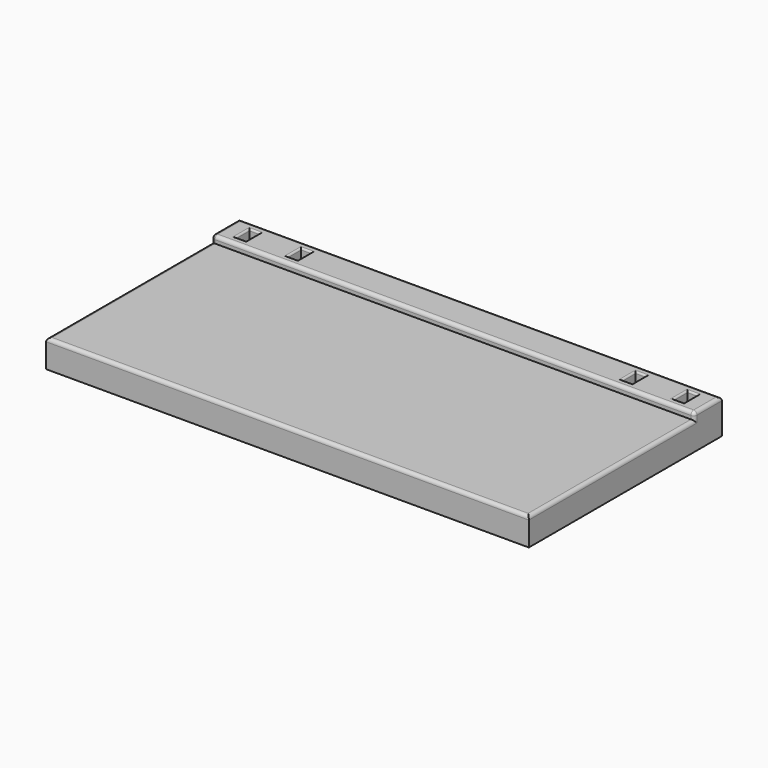
from build123d import *

# Parameters (mm, degrees)
SKETCH_W        = 140
SKETCH_H        = 70
PAD_DEPTH       = 10
SKETCH001_W     = 140
SKETCH001_H     = 60
POCKET_DEPTH    = 2
FILLET_R        = 1
SKETCH002_W     = 3
SKETCH002_H     = 5
POCKET001_DEPTH = 10.001
FILLET001_R     = 0.5
FILLET002_R     = 0.5


with BuildPart() as part:
    # Sketch → Pad (new body)
    with BuildSketch(Plane.XY):
        with Locations((70, 35)):
            Rectangle(SKETCH_W, SKETCH_H)
    extrude(amount=PAD_DEPTH)

    # Sketch001 (on Face6 of Pad) → Pocket (cut)
    with BuildSketch(Plane.XY.offset(10)):
        with Locations((70, 30)):
            Rectangle(SKETCH001_W, SKETCH001_H)
    extrude(amount=-POCKET_DEPTH, mode=Mode.SUBTRACT)

    # Fillet
    fillet_edges = [part.edges().sort_by_distance(p)[0] for p in [
        (0, 30, 8),
        (70, 0, 8),
        (140, 30, 8),
        (70, 60, 10),
        (140, 65, 10),
        (70, 70, 10),
        (0, 65, 10),
        (0, 60, 9),
        (140, 60, 9),
    ]]
    fillet(fillet_edges, radius=FILLET_R)

    # Sketch002 (on Face10 of Fillet) → Pocket001 (cut, through all)
    with BuildSketch(Plane.XY.offset(10)):
        with Locations((6.5, 65)):
            Rectangle(SKETCH002_W, SKETCH002_H)
        with Locations((21.5, 65)):
            Rectangle(SKETCH002_W, SKETCH002_H)
        with Locations((118.5, 65)):
            Rectangle(SKETCH002_W, SKETCH002_H)
        with Locations((133.5, 65)):
            Rectangle(SKETCH002_W, SKETCH002_H)
    extrude(amount=-POCKET001_DEPTH, mode=Mode.SUBTRACT)

    # Fillet001
    fillet001_edges = [part.edges().sort_by_distance(p)[0] for p in [
        (5, 65, 10),
        (6.5, 67.5, 10),
        (8, 65, 10),
        (6.5, 62.5, 10),
        (21.5, 67.5, 10),
        (20, 65, 10),
        (23, 65, 10),
        (21.5, 62.5, 10),
        (117, 65, 10),
        (118.5, 67.5, 10),
        (120, 65, 10),
        (118.5, 62.5, 10),
        (133.5, 67.5, 10),
        (132, 65, 10),
        (133.5, 62.5, 10),
        (135, 65, 10),
    ]]
    fillet(fillet001_edges, radius=FILLET001_R)

    # Fillet002
    fillet002_edges = [part.edges().sort_by_distance(p)[0] for p in [
        (5, 65, 0),
        (6.5, 62.5, 0),
        (8, 65, 0),
        (6.5, 67.5, 0),
        (21.5, 62.5, 0),
        (20, 65, 0),
        (21.5, 67.5, 0),
        (23, 65, 0),
        (117, 65, 0),
        (118.5, 62.5, 0),
        (120, 65, 0),
        (118.5, 67.5, 0),
        (132, 65, 0),
        (133.5, 62.5, 0),
        (135, 65, 0),
        (133.5, 67.5, 0),
    ]]
    fillet(fillet002_edges, radius=FILLET002_R)


solid = part.part
